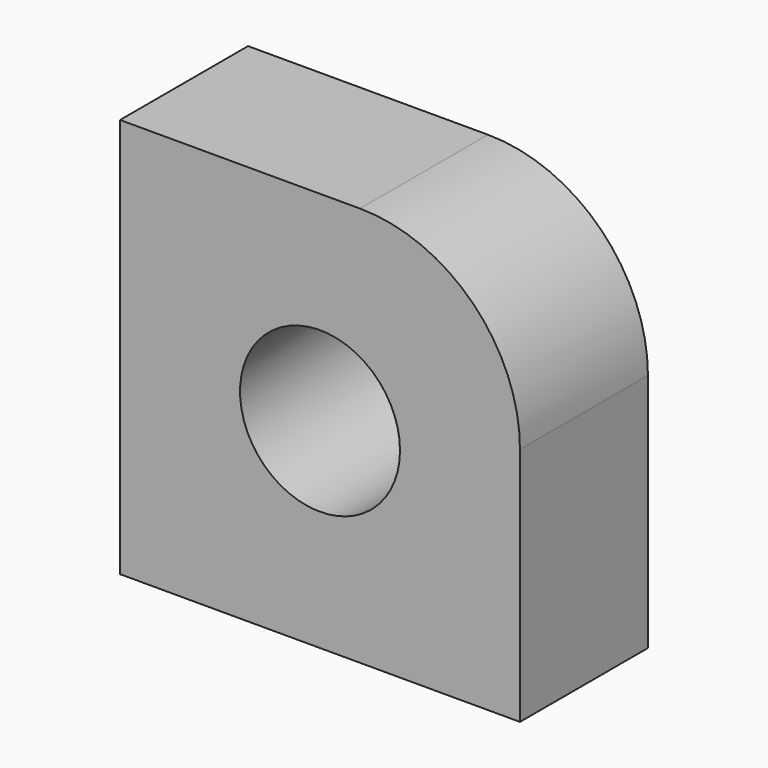
from build123d import *

# Parameters (mm, degrees)
F0_W     = 127
F0_H     = 50.8
F1_DEPTH = 63.5
F2_R     = 50.8
F3_R     = 25.4
F4_DEPTH = 50.801


with BuildPart() as f1:
    # F0 (on Top) → F1 (new body, symmetric)
    with BuildSketch(Plane.XY):
        Rectangle(F0_W, F0_H)
    extrude(amount=F1_DEPTH, both=True)

    # F2
    f2_edges = [f1.edges().sort_by_distance(p)[0] for p in [
        (63.5, 0, 63.5),
    ]]
    fillet(f2_edges, radius=F2_R)

    # F3 (on face) → F4 (cut, through all)
    with BuildSketch(Plane.XZ.offset(25.4)):
        Circle(F3_R)
    extrude(amount=-F4_DEPTH, mode=Mode.SUBTRACT)


solid = f1.part
